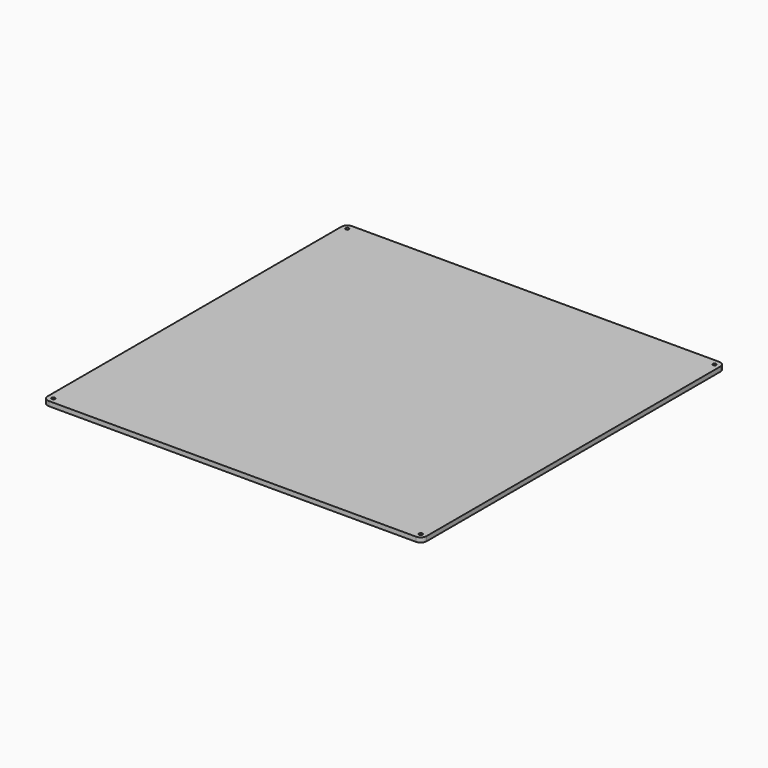
from build123d import *

# Parameters (mm, degrees)
F0_W     = 330
F0_H     = 330
F0_R     = 1.5
F1_DEPTH = 4
F2_R     = 5


with BuildPart() as f1:
    # F0 (on Top) → F1 (new body)
    with BuildSketch(Plane.XY):
        Rectangle(F0_W, F0_H)
        with Locations((-160, -160)):
            Circle(F0_R, mode=Mode.SUBTRACT)
        with Locations((160, -160)):
            Circle(F0_R, mode=Mode.SUBTRACT)
        with Locations((-160, 160)):
            Circle(F0_R, mode=Mode.SUBTRACT)
        with Locations((160, 160)):
            Circle(F0_R, mode=Mode.SUBTRACT)
    extrude(amount=F1_DEPTH)

    # F2
    f2_edges = [f1.edges().sort_by_distance(p)[0] for p in [
        (165, -165, 2),
        (-165, -165, 2),
        (-165, 165, 2),
        (165, 165, 2),
    ]]
    fillet(f2_edges, radius=F2_R)


solid = f1.part
